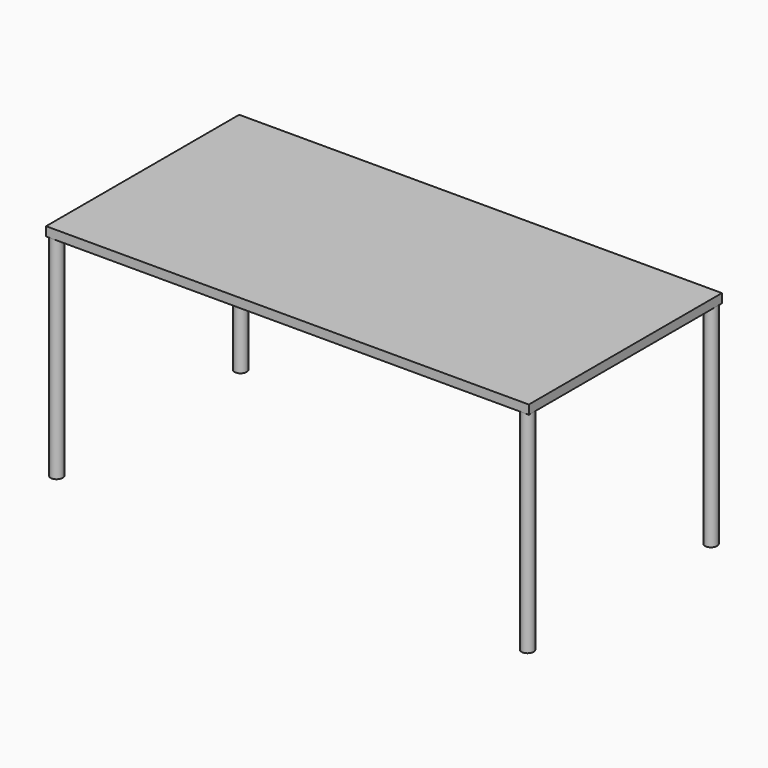
from build123d import *

# Parameters (mm, degrees)
CYLINDER002_R     = 20
CYLINDER002_DEPTH = 700
CYLINDER001_R     = 20
CYLINDER001_DEPTH = 700
CYLINDER_R        = 20
CYLINDER_DEPTH    = 700
BOX_W             = 1600
BOX_H             = 800
BOX_DEPTH         = 30
CYLINDER003_R     = 20
CYLINDER003_DEPTH = 700


with BuildPart() as cylinder002:
    # Cylinder002 → Cylinder002 (new body)
    with BuildSketch(Plane(origin=(-780, 381, 0), x_dir=(1, 0, 0), z_dir=(0, 0, 1))):
        Circle(CYLINDER002_R)
    extrude(amount=CYLINDER002_DEPTH)


with BuildPart() as cylinder001:
    # Cylinder001 → Cylinder001 (new body)
    with BuildSketch(Plane(origin=(780, -380, 0), x_dir=(1, 0, 0), z_dir=(0, 0, 1))):
        Circle(CYLINDER001_R)
    extrude(amount=CYLINDER001_DEPTH)


with BuildPart() as cylinder:
    # Cylinder → Cylinder (new body)
    with BuildSketch(Plane(origin=(780, 380, 0), x_dir=(1, 0, 0), z_dir=(0, 0, 1))):
        Circle(CYLINDER_R)
    extrude(amount=CYLINDER_DEPTH)


with BuildPart() as cube:
    # Box → Box (new body)
    with BuildSketch(Plane(origin=(-800, -400, 700), x_dir=(1, 0, 0), z_dir=(0, 0, 1))):
        with Locations((800, 400)):
            Rectangle(BOX_W, BOX_H)
    extrude(amount=BOX_DEPTH)


with BuildPart() as fusion:
    # Cylinder003 → Cylinder003 (new body)
    with BuildSketch(Plane(origin=(-781, -380, 0), x_dir=(1, 0, 0), z_dir=(0, 0, 1))):
        Circle(CYLINDER003_R)
    extrude(amount=CYLINDER003_DEPTH)

    # Fusion: union Cylinder002, Cylinder001, Cylinder, Cube
    add(cylinder002.part)
    add(cylinder001.part)
    add(cylinder.part)
    add(cube.part)


solid = fusion.part
